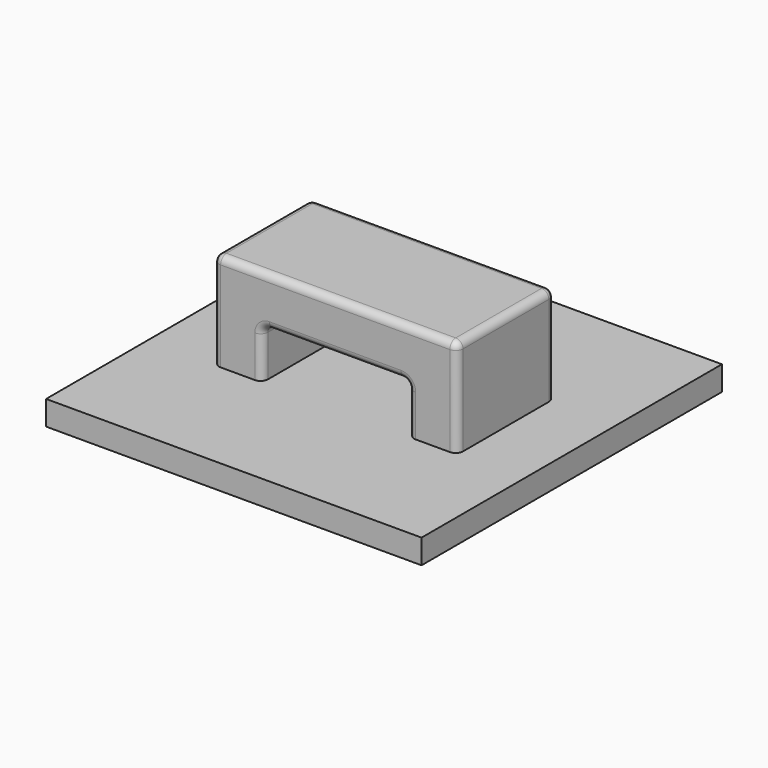
from build123d import *

# Parameters (mm, degrees)
F1_DEPTH = 3.175
F2_R     = 0.381
F3_W     = 19.558
F3_H     = 19.558
F4_DEPTH = 1.27


with BuildPart() as f1:
    # F0 (on Front) → F1 (new body, symmetric)
    with BuildSketch(Plane.XZ):
        Polygon((-3.81, -1.27), (-3.81, 1.27), (3.81, 1.27), (3.81, -1.27), (6.35, -1.27), (6.35, 3.81), (-6.35, 3.81), (-6.35, -1.27), align=None)
    extrude(amount=F1_DEPTH, both=True)

    # F2
    f2_edges = [f1.edges().sort_by_distance(p)[0] for p in [
        (0, 3.175, 3.81),
        (6.35, 0, 3.81),
        (0, -3.175, 3.81),
        (-6.35, 0, 3.81),
        (-6.35, -3.175, 1.27),
        (-6.35, 3.175, 1.27),
        (0, 3.175, 1.27),
        (-3.81, 3.175, 0),
        (3.81, 3.175, 0),
        (6.35, 3.175, 1.27),
        (6.35, -3.175, 1.27),
        (0, -3.175, 1.27),
        (-3.81, -3.175, 0),
        (3.81, -3.175, 0),
        (-3.81, 0, 1.27),
        (3.81, 0, 1.27),
    ]]
    fillet(f2_edges, radius=F2_R)

    # F3 (on face) → F4 (join)
    with BuildSketch(Plane(origin=(0, 0, -1.27), x_dir=(1, 0, 0), z_dir=(0, 0, -1))):
        Rectangle(F3_W, F3_H)
        with BuildLine():
            Line((3.81, -2.794), (3.81, 2.794))
            ThreePointArc((3.81, 2.794), (3.921592, 3.063408), (4.191, 3.175))
            Line((4.191, 3.175), (5.969, 3.175))
            ThreePointArc((5.969, 3.175), (6.238408, 3.063408), (6.35, 2.794))
            Line((6.35, 2.794), (6.35, -2.794))
            ThreePointArc((6.35, -2.794), (6.238408, -3.063408), (5.969, -3.175))
            Line((5.969, -3.175), (4.191, -3.175))
            ThreePointArc((4.191, -3.175), (3.921592, -3.063408), (3.81, -2.794))
        make_face(mode=Mode.SUBTRACT)
        with BuildLine():
            ThreePointArc((4.191, 3.175), (3.921592, 3.063408), (3.81, 2.794))
            Line((3.81, 2.794), (3.81, -2.794))
            ThreePointArc((3.81, -2.794), (3.921592, -3.063408), (4.191, -3.175))
            Line((4.191, -3.175), (5.969, -3.175))
            ThreePointArc((5.969, -3.175), (6.238408, -3.063408), (6.35, -2.794))
            Line((6.35, -2.794), (6.35, 2.794))
            ThreePointArc((6.35, 2.794), (6.238408, 3.063408), (5.969, 3.175))
            Line((5.969, 3.175), (4.191, 3.175))
        make_face()
    extrude(amount=F4_DEPTH)


solid = f1.part
